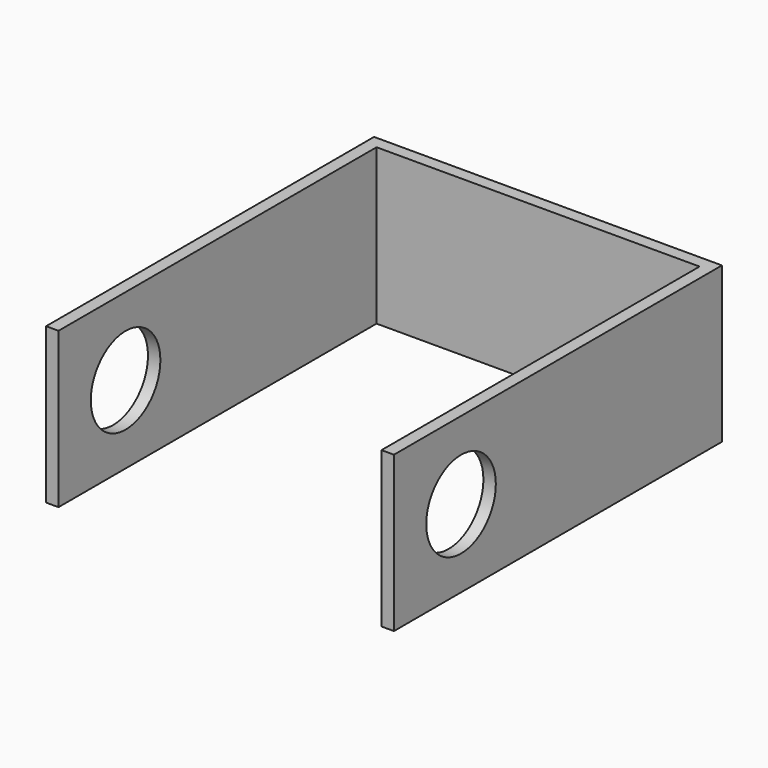
from build123d import *

# Parameters (mm, degrees)
PAD_DEPTH    = 25
SKETCH001_R  = 7
POCKET_DEPTH = 56.001


with BuildPart() as part:
    # Sketch → Pad (new body)
    with BuildSketch(Plane.XY):
        Polygon((-27.014097, -10.624443), (-25.014097, -10.624443), (-25.014097, 53.375557), (26.985903, 53.375557), (26.985903, -10.624443), (28.985903, -10.624443), (28.985903, 55.375557), (-27.014097, 55.375557), align=None)
    extrude(amount=PAD_DEPTH)

    # Sketch001 (on Face6 of Pad) → Pocket (cut, through all)
    with BuildSketch(Plane.YZ.offset(28.985903)):
        with Locations((2.875557, 12.5)):
            Circle(SKETCH001_R)
    extrude(amount=-POCKET_DEPTH, mode=Mode.SUBTRACT)


with BuildPart() as part_1:
    # Body placement: moved
    add(part.part.moved(Location((0, -3, -12.5))))


solid = part_1.part
